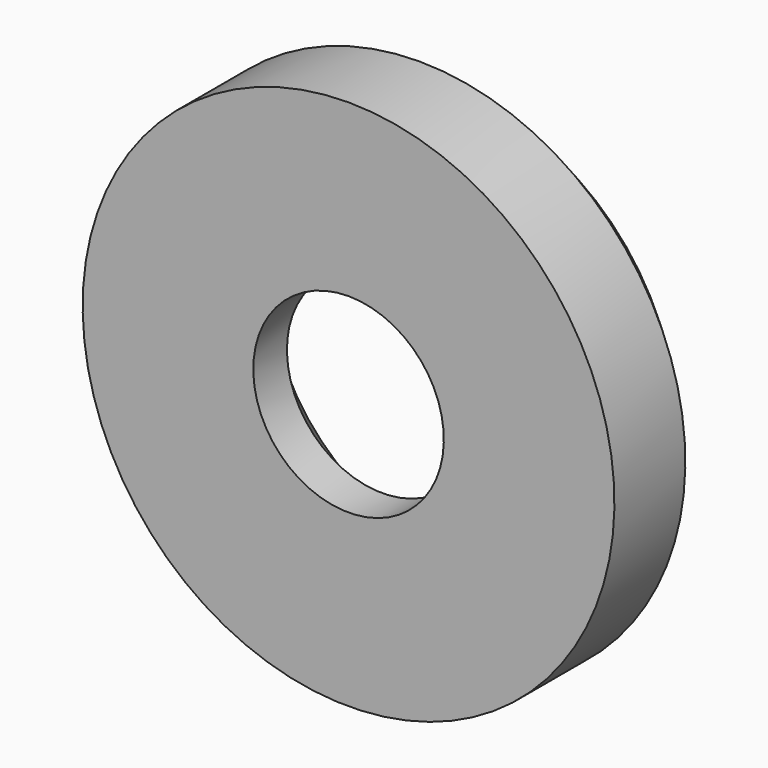
from build123d import *

# Parameters (mm, degrees)
F2_SIZE = 1


with BuildPart() as f1:
    # F0 (on Right) → F1 (revolve)
    with BuildSketch(Plane.YZ):
        Polygon((0, 6), (0, 2.15), (0.95, 2.15), (3, 4.2), (3, 6), align=None)
    revolve(axis=Axis((0, 1.5, 0), (0, 1, 0)))

    # F2
    f2_edges = [f1.edges().sort_by_distance(p)[0] for p in [
        (0, 3, -6),
    ]]
    chamfer(f2_edges, length=F2_SIZE)


solid = f1.part
